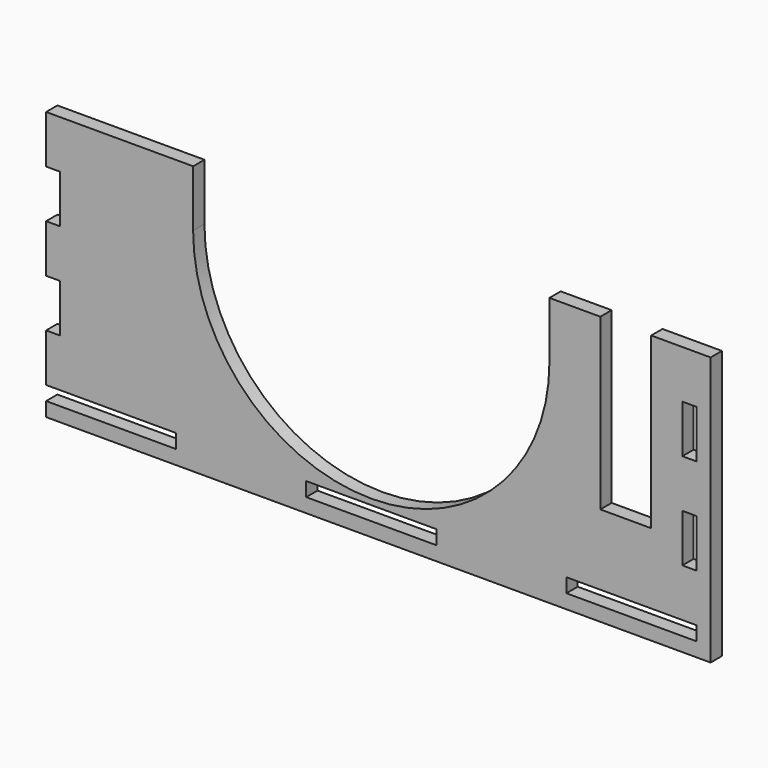
from build123d import *

# Parameters (mm, degrees)
F0_W     = 46
F0_H     = 5
F0_W_2   = 5
F0_H_2   = 17
F1_DEPTH = 5


with BuildPart() as f1:
    # F0 (on Front) → F1 (new body)
    with BuildSketch(Plane.XZ):
        with BuildLine():
            Line((115, 42.5), (110, 42.5))
            Line((110, 42.5), (99, 42.5))
            Line((99, 42.5), (99, -17.5))
            Line((99, -17.5), (81, -17.5))
            Line((81, -17.5), (81, 42.5))
            Line((81, 42.5), (63, 42.5))
            Line((63, 42.5), (63, 22.5))
            ThreePointArc((63, 22.5), (0, -40.5), (-63, 22.5))
            Line((-63, 22.5), (-63, 42.5))
            Line((-63, 42.5), (-110, 42.5))
            Line((-110, 42.5), (-115, 42.5))
            Line((-115, 42.5), (-115, 25.5))
            Line((-115, 25.5), (-110, 25.5))
            Line((-110, 25.5), (-110, 8.5))
            Line((-110, 8.5), (-115, 8.5))
            Line((-115, 8.5), (-115, -8.5))
            Line((-115, -8.5), (-110, -8.5))
            Line((-110, -8.5), (-110, -25.5))
            Line((-110, -25.5), (-115, -25.5))
            Line((-115, -25.5), (-115, -42.5))
            Line((-115, -42.5), (-69, -42.5))
            Line((-69, -42.5), (-69, -47.5))
            Line((-69, -47.5), (-115, -47.5))
            Line((-115, -47.5), (-115, -52.5))
            Line((-115, -52.5), (115, -52.5))
            Line((115, -52.5), (120, -52.5))
            Line((120, -52.5), (120, 42.5))
            Line((120, 42.5), (115, 42.5))
        make_face()
        with Locations((0, -45)):
            Rectangle(F0_W, F0_H, mode=Mode.SUBTRACT)
        with Locations((92, -45)):
            Rectangle(F0_W, F0_H, mode=Mode.SUBTRACT)
        with Locations((112.5, -17)):
            Rectangle(F0_W_2, F0_H_2, mode=Mode.SUBTRACT)
        with Locations((112.5, 17)):
            Rectangle(F0_W_2, F0_H_2, mode=Mode.SUBTRACT)
    extrude(amount=F1_DEPTH)


solid = f1.part
